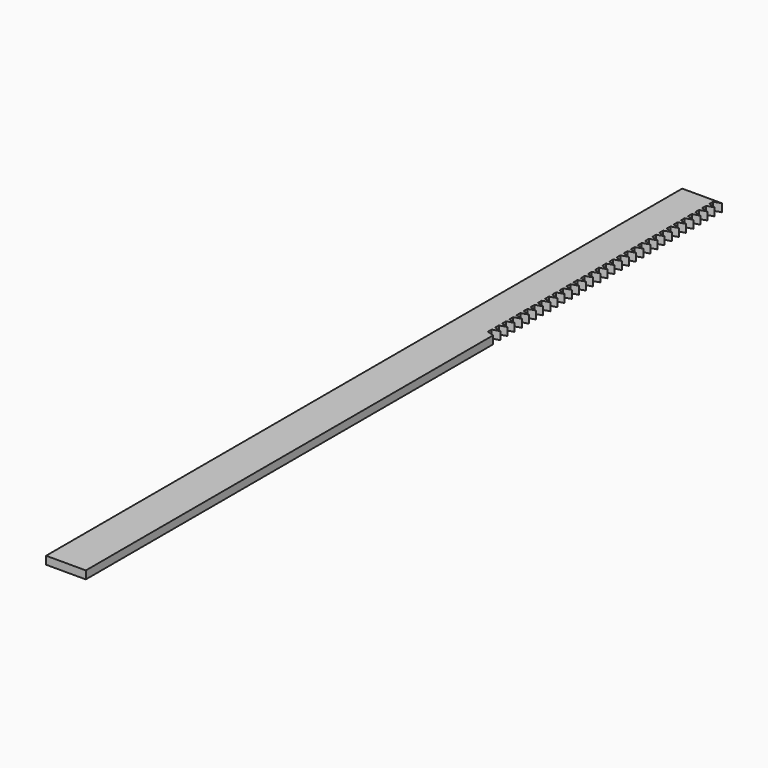
from build123d import *

# Parameters (mm, degrees)
F0_W     = 5
F0_H     = 100
F1_DEPTH = 0.5
F3_DEPTH = 25


with BuildPart() as f1:
    # F0 (on Top) → F1 (new body, symmetric)
    with BuildSketch(Plane.XY):
        with Locations((-58.457311, -27.543506)):
            Rectangle(F0_W, F0_H)
    extrude(amount=F1_DEPTH, both=True)

    # F2 (on face) → F3 (cut)
    with BuildSketch(Plane.XY.offset(0.5)):
        Polygon((-55.957311, 22.447845), (-56.83507, 22.18105), (-56.83507, 21.59127), (-55.957311, 21.324475), align=None)
        Polygon((-55.957311, 20.201105), (-55.957311, 21.324475), (-56.83507, 21.05768), (-56.83507, 20.4679), align=None)
        Polygon((-55.957311, 19.077735), (-55.957311, 20.201105), (-56.83507, 19.93431), (-56.83507, 19.34453), align=None)
        Polygon((-55.957311, 17.954365), (-55.957311, 19.077735), (-56.83507, 18.81094), (-56.83507, 18.22116), align=None)
        Polygon((-55.957311, 16.830995), (-55.957311, 17.954365), (-56.83507, 17.68757), (-56.83507, 17.09779), align=None)
        Polygon((-55.957311, 15.707625), (-55.957311, 16.830995), (-56.83507, 16.5642), (-56.83507, 15.97442), align=None)
        Polygon((-55.957311, 14.584255), (-55.957311, 15.707625), (-56.83507, 15.44083), (-56.83507, 14.85105), align=None)
        Polygon((-55.957311, 13.460885), (-55.957311, 14.584255), (-56.83507, 14.31746), (-56.83507, 13.72768), align=None)
        Polygon((-55.957311, 12.337515), (-55.957311, 13.460885), (-56.83507, 13.19409), (-56.83507, 12.60431), align=None)
        Polygon((-55.957311, 11.214145), (-55.957311, 12.337515), (-56.83507, 12.07072), (-56.83507, 11.48094), align=None)
        Polygon((-55.957311, 10.090775), (-55.957311, 11.214145), (-56.83507, 10.94735), (-56.83507, 10.35757), align=None)
        Polygon((-55.957311, 8.967405), (-55.957311, 10.090775), (-56.83507, 9.82398), (-56.83507, 9.2342), align=None)
        Polygon((-55.957311, 7.844035), (-55.957311, 8.967405), (-56.83507, 8.70061), (-56.83507, 8.11083), align=None)
        Polygon((-55.957311, 6.720665), (-55.957311, 7.844035), (-56.83507, 7.57724), (-56.83507, 6.98746), align=None)
        Polygon((-55.957311, 5.597295), (-55.957311, 6.720665), (-56.83507, 6.45387), (-56.83507, 5.86409), align=None)
        Polygon((-55.957311, 4.473925), (-55.957311, 5.597295), (-56.83507, 5.3305), (-56.83507, 4.74072), align=None)
        Polygon((-55.957311, 3.350555), (-55.957311, 4.473925), (-56.83507, 4.20713), (-56.83507, 3.61735), align=None)
        Polygon((-55.957311, 2.227185), (-55.957311, 3.350555), (-56.83507, 3.08376), (-56.83507, 2.49398), align=None)
        Polygon((-55.957311, 1.103815), (-55.957311, 2.227185), (-56.83507, 1.96039), (-56.83507, 1.37061), align=None)
        Polygon((-56.83507, 0.24724), (-55.957311, -0.019555), (-55.957311, 1.103815), (-56.83507, 0.83702), align=None)
        Polygon((-56.83507, -0.87613), (-55.957311, -1.142925), (-55.957311, -0.019555), (-56.83507, -0.28635), align=None)
        Polygon((-56.83507, -1.9995), (-55.957311, -2.266295), (-55.957311, -1.142925), (-56.83507, -1.40972), align=None)
        Polygon((-56.83507, -3.12287), (-55.957311, -3.389665), (-55.957311, -2.266295), (-56.83507, -2.53309), align=None)
        Polygon((-56.83507, -4.24624), (-55.957311, -4.513035), (-55.957311, -3.389665), (-56.83507, -3.65646), align=None)
        Polygon((-56.83507, -5.36961), (-55.957311, -5.636405), (-55.957311, -4.513035), (-56.83507, -4.77983), align=None)
        Polygon((-56.83507, -6.49298), (-55.957311, -6.759775), (-55.957311, -5.636405), (-56.83507, -5.9032), align=None)
        Polygon((-56.83507, -7.61635), (-55.957311, -7.883145), (-55.957311, -6.759775), (-56.83507, -7.02657), align=None)
        Polygon((-56.83507, -8.73972), (-55.957311, -9.006515), (-55.957311, -7.883145), (-56.83507, -8.14994), align=None)
        Polygon((-56.83507, -9.86309), (-55.957311, -10.129885), (-55.957311, -9.006515), (-56.83507, -9.27331), align=None)
        Polygon((-56.83507, -10.98646), (-55.957311, -11.253255), (-55.957311, -10.129885), (-56.83507, -10.39668), align=None)
        Polygon((-56.83507, -12.10983), (-55.957311, -12.376625), (-55.957311, -11.253255), (-56.83507, -11.52005), align=None)
        Polygon((-56.83507, -13.2332), (-55.957311, -13.499995), (-55.957311, -12.376625), (-56.83507, -12.64342), align=None)
    extrude(amount=-F3_DEPTH, mode=Mode.SUBTRACT)


solid = f1.part
